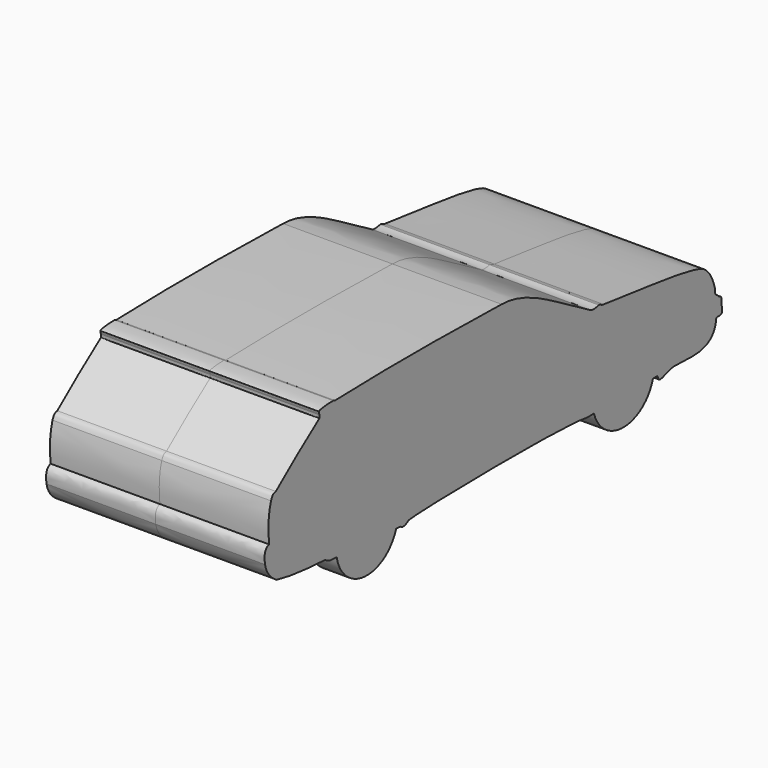
from build123d import *

# Parameters (mm, degrees)
F1_DEPTH = 902.5
F3_DEPTH = 225
F5_DEPTH = 225


with BuildPart() as f1:
    # F0 (on Right) → F1 (new body, symmetric)
    with BuildSketch(Plane.YZ):
        with BuildLine():
            add(Edge.make_bspline(
                [(1101.478338, 1014.964938), (1069.079041, 1005.923271), (1030.981779, 1002.969623), (1014.452219, 1014.588237)],
                knots=[0, 0, 0, 0, 87.026935, 87.026935, 87.026935, 87.026935], degree=3))
            add(Edge.make_bspline(
                [(1014.452219, 1014.588237), (611.487091, 1240.147233), (367.158981, 1423.733741), (98.51558, 1428.802401)],
                knots=[0, 0, 0, 0, 1005.242907, 1005.242907, 1005.242907, 1005.242907], degree=3))
            add(Edge.make_bspline(
                [(98.51558, 1428.802401), (-476.824492, 1442.931395), (-1046.424493, 1447.578598), (-1621.837849, 1428.802401)],
                knots=[0, 0, 0, 0, 1720.353428, 1720.353428, 1720.353428, 1720.353428], degree=3))
            add(Edge.make_bspline(
                [(-1621.837849, 1428.802401), (-1631.183743, 1428.406358), (-1628.966093, 1434.425473), (-1641.321182, 1434.742212)],
                knots=[0, 0, 0, 0, 20.368644, 20.368644, 20.368644, 20.368644], degree=3))
            add(Edge.make_bspline(
                [(-1641.321182, 1434.742212), (-1703.413248, 1437.276602), (-1787.681103, 1425.555229), (-1789.265156, 1416.051269)],
                knots=[0, 0, 0, 0, 149.119988, 149.119988, 149.119988, 149.119988], degree=3))
            add(Edge.make_bspline(
                [(-1789.265156, 1416.051269), (-1790.532351, 1402.428985), (-1785.408854, 1403.696299), (-1782.874465, 1389.440417)],
                knots=[0, 0, 0, 0, 27.367469, 27.367469, 27.367469, 27.367469], degree=3))
            add(Edge.make_bspline(
                [(-1782.874465, 1389.440417), (-1781.454563, 1381.36065), (-1779.255867, 1368.214488), (-1782.874465, 1364.135981)],
                knots=[0, 0, 0, 0, 25.304437, 25.304437, 25.304437, 25.304437], degree=3))
            add(Edge.make_bspline(
                [(-1782.874465, 1364.135981), (-1942.411184, 1251.474142), (-2090.845346, 1131.671906), (-2232.93972, 1015.63704)],
                knots=[0, 0, 0, 0, 569.218978, 569.218978, 569.218978, 569.218978], degree=3))
            add(Edge.make_bspline(
                [(-2232.93972, 1015.63704), (-2267.341375, 1009.202838), (-2269.133568, 997.554421), (-2282.573938, 967.537224)],
                knots=[0, 0, 0, 0, 69.116915, 69.116915, 69.116915, 69.116915], degree=3))
            add(Edge.make_bspline(
                [(-2282.573938, 967.537224), (-2315.279484, 864.045084), (-2311.695337, 756.520808), (-2301.838875, 658.404887)],
                knots=[0, 0, 0, 0, 309.732045, 309.732045, 309.732045, 309.732045], degree=3))
            add(Edge.make_bspline(
                [(-2301.838875, 658.404887), (-2356.497049, 643.620253), (-2352.016926, 578.657687), (-2344.400644, 529.375732)],
                knots=[0, 0, 0, 0, 135.867682, 135.867682, 135.867682, 135.867682], degree=3))
            add(Edge.make_bspline(
                [(-2344.400644, 529.375732), (-2327.823877, 446.940452), (-2275.405645, 400.346547), (-2222.539663, 368.985325)],
                knots=[0, 0, 0, 0, 201.432821, 201.432821, 201.432821, 201.432821], degree=3))
            add(Edge.make_bspline(
                [(-2222.539663, 368.985325), (-2068.421602, 331.799835), (-1892.350554, 320.151389), (-1722.999811, 310.743004)],
                knots=[0, 0, 0, 0, 502.923684, 502.923684, 502.923684, 502.923684], degree=3))
            add(Edge.make_bspline(
                [(-1722.999811, 310.743004), (-1708.100813, 298.669668), (-1682.744431, 286.449044), (-1663.56729, 285.481846)],
                knots=[0, 0, 0, 0, 48.861796, 48.861796, 48.861796, 48.861796], degree=3))
            add(Edge.make_bspline(
                [(-1663.56729, 285.481846), (-1649.298017, 284.762176), (-1638.449888, 290.272975), (-1637.876511, 306.710869)],
                knots=[48.861796, 48.861796, 48.861796, 48.861796, 85.218744, 85.218744, 85.218744, 85.218744], degree=3))
            add(Edge.make_bspline(
                [(-1637.876511, 306.710869), (-1649.076819, 526.687622), (-1542.44864, 647.204399), (-1412.971497, 702.75861)],
                knots=[0, 0, 0, 0, 455.451511, 455.451511, 455.451511, 455.451511], degree=3))
            add(Edge.make_bspline(
                [(-1412.971497, 702.75861), (-1258.853316, 737.704039), (-1082.334399, 719.783306), (-989.14665, 553.568661)],
                knots=[0, 0, 0, 0, 449.316305, 449.316305, 449.316305, 449.316305], degree=3))
            add(Edge.make_bspline(
                [(-989.14665, 553.568661), (-936.602473, 454.77581), (-941.532441, 342.288904), (-944.220491, 237.004705)],
                knots=[0, 0, 0, 0, 319.735982, 319.735982, 319.735982, 319.735982], degree=3))
            add(Edge.make_bspline(
                [(-944.220491, 237.004705), (-943.324455, 228.044353), (-909.721375, 212.398157), (-865.367591, 246.447518)],
                knots=[0, 0, 0, 0, 79.416286, 79.416286, 79.416286, 79.416286], degree=3))
            add(Edge.make_bspline(
                [(-865.367591, 246.447518), (-834.405482, 270.842612), (742.617369, 295.931607), (973.79452, 246.447518)],
                knots=[0, 0, 0, 0, 1839.162111, 1839.162111, 1839.162111, 1839.162111], degree=3))
            add(Edge.make_bspline(
                [(973.79452, 246.447518), (982.639194, 467.240185), (1032.368422, 711.365521), (1331.497312, 736.230135)],
                knots=[0, 0, 0, 0, 606.496742, 606.496742, 606.496742, 606.496742], degree=3))
            add(Edge.make_bspline(
                [(1331.497312, 736.230135), (1562.060118, 742.257893), (1739.879847, 544.094384), (1709.740877, 254.00722)],
                knots=[0, 0, 0, 0, 612.867958, 612.867958, 612.867958, 612.867958], degree=3))
            add(Edge.make_bspline(
                [(1709.740877, 254.00722), (1715.015173, 173.385605), (1793.376446, 249.486387), (1880.025864, 254.00722)],
                knots=[0, 0, 0, 0, 170.284986, 170.284986, 170.284986, 170.284986], degree=3))
            add(Edge.make_bspline(
                [(1880.025864, 254.00722), (2073.66848, 248.73291), (2294.435978, 211.059242), (2315.5334, 431.073427)],
                knots=[0, 0, 0, 0, 470.12685, 470.12685, 470.12685, 470.12685], degree=3))
            add(Edge.make_bspline(
                [(2315.5334, 431.073427), (2375.8111, 431.073457), (2375.8111, 431.073457), (2372.043848, 482.30961)],
                knots=[0, 0, 0, 0, 76.279599, 76.279599, 76.279599, 76.279599], degree=3))
            add(Edge.make_bspline(
                [(2372.043848, 482.30961), (2367.522955, 556.903422), (2376.564741, 562.93124), (2338.137627, 574.986815)],
                knots=[0, 0, 0, 0, 98.684833, 98.684833, 98.684833, 98.684833], degree=3))
            add(Edge.make_bspline(
                [(2338.137627, 574.986815), (2325.328588, 598.344445), (2314.779997, 587.042391), (2301.217318, 614.920855)],
                knots=[0, 0, 0, 0, 54.385997, 54.385997, 54.385997, 54.385997], degree=3))
            add(Edge.make_bspline(
                [(2301.217318, 614.920855), (2301.217318, 626.474122), (2301.217318, 638.02739), (2301.217318, 649.580657)],
                knots=[0, 0, 0, 0, 34.659803, 34.659803, 34.659803, 34.659803], degree=3))
            add(Edge.make_bspline(
                [(2301.217318, 649.580657), (2277.106285, 733.216166), (2254.502296, 779.178023), (2197.99161, 827.400327)],
                knots=[0, 0, 0, 0, 205.60978, 205.60978, 205.60978, 205.60978], degree=3))
            add(Edge.make_bspline(
                [(2197.99161, 827.400327), (2100.7936, 905.76154), (1512.33089, 948.709548), (1151.417255, 999.9457)],
                knots=[0, 0, 0, 0, 1060.702496, 1060.702496, 1060.702496, 1060.702496], degree=3))
            add(Edge.make_bspline(
                [(1151.417255, 999.9457), (1127.096415, 1001.779199), (1123.329043, 1014.964938), (1101.478338, 1014.964938)],
                knots=[0, 0, 0, 0, 52.148566, 52.148566, 52.148566, 52.148566], degree=3))
        make_face()
        with BuildLine():
            Line((973.79452, 246.447518), (1709.740877, 254.00722))
            add(Edge.make_bspline(
                [(1331.497312, 736.230135), (1562.060118, 742.257893), (1739.879847, 544.094384), (1709.740877, 254.00722)],
                knots=[0, 0, 0, 0, 612.867958, 612.867958, 612.867958, 612.867958], degree=3))
            add(Edge.make_bspline(
                [(973.79452, 246.447518), (982.639194, 467.240185), (1032.368422, 711.365521), (1331.497312, 736.230135)],
                knots=[0, 0, 0, 0, 606.496742, 606.496742, 606.496742, 606.496742], degree=3))
        make_face()
        with BuildLine():
            add(Edge.make_bspline(
                [(-1663.56729, 285.481846), (-1649.298017, 284.762176), (-1638.449888, 290.272975), (-1637.876511, 306.710869)],
                knots=[48.861796, 48.861796, 48.861796, 48.861796, 85.218744, 85.218744, 85.218744, 85.218744], degree=3))
            Line((-1663.56729, 285.481846), (-944.220491, 237.004705))
            add(Edge.make_bspline(
                [(-989.14665, 553.568661), (-936.602473, 454.77581), (-941.532441, 342.288904), (-944.220491, 237.004705)],
                knots=[0, 0, 0, 0, 319.735982, 319.735982, 319.735982, 319.735982], degree=3))
            add(Edge.make_bspline(
                [(-1412.971497, 702.75861), (-1258.853316, 737.704039), (-1082.334399, 719.783306), (-989.14665, 553.568661)],
                knots=[0, 0, 0, 0, 449.316305, 449.316305, 449.316305, 449.316305], degree=3))
            add(Edge.make_bspline(
                [(-1637.876511, 306.710869), (-1649.076819, 526.687622), (-1542.44864, 647.204399), (-1412.971497, 702.75861)],
                knots=[0, 0, 0, 0, 455.451511, 455.451511, 455.451511, 455.451511], degree=3))
        make_face()
    extrude(amount=F1_DEPTH, both=True)

    # F2 (on face) → F3 (join)
    with BuildSketch(Plane(origin=(-902.5, 0, 0), x_dir=(0, -1, 0), z_dir=(-1, 0, 0))):
        with BuildLine():
            ThreePointArc((-1051.570597, 247.246441), (-1041.052542, 293.461517), (-1037.520368, 340.726584))
            ThreePointArc((-1037.520368, 340.726584), (-1399.552872, 655.663306), (-1661.326271, 253.509901))
            Line((-1661.326271, 253.509901), (-1051.570597, 247.246441))
        make_face()
        with BuildLine():
            Line((-1051.570597, 247.246441), (-1661.326271, 253.509901))
            ThreePointArc((-1661.326271, 253.509901), (-1358.786718, 22.74336), (-1051.570597, 247.246441))
        make_face()
        with BuildLine():
            ThreePointArc((1610.566419, 340.726584), (1241.61997, 654.619017), (990.890574, 240.149825))
            Line((990.890574, 240.149825), (1605.009093, 281.53558))
            ThreePointArc((1605.009093, 281.53558), (1609.174039, 311.000927), (1610.566419, 340.726584))
        make_face()
        with BuildLine():
            Line((1605.009093, 281.53558), (990.890574, 240.149825))
            ThreePointArc((990.890574, 240.149825), (1313.948101, 23.446229), (1605.009093, 281.53558))
        make_face()
    extrude(amount=-F3_DEPTH)

    # F4 (on face) → F5 (join)
    with BuildSketch(Plane.YZ.offset(902.5)):
        with BuildLine():
            ThreePointArc((-990.221178, 240.104714), (-978.09951, 289.551691), (-974.024136, 340.299398))
            ThreePointArc((-974.024136, 340.299398), (-1321.549336, 656.925775), (-1604.54151, 281.504069))
            Line((-1604.54151, 281.504069), (-990.221178, 240.104714))
        make_face()
        with BuildLine():
            Line((-990.221178, 240.104714), (-1604.54151, 281.504069))
            ThreePointArc((-1604.54151, 281.504069), (-1313.405818, 23.019043), (-990.221178, 240.104714))
        make_face()
        with BuildLine():
            ThreePointArc((1673.589986, 340.299398), (1308.545542, 654.800304), (1051.509355, 247.245812))
            Line((1051.509355, 247.245812), (1661.51796, 253.51187))
            ThreePointArc((1661.51796, 253.51187), (1670.55752, 296.487845), (1673.589986, 340.299398))
        make_face()
        with BuildLine():
            Line((1661.51796, 253.51187), (1051.509355, 247.245812))
            ThreePointArc((1051.509355, 247.245812), (1358.856336, 22.316173), (1661.51796, 253.51187))
        make_face()
    extrude(amount=-F5_DEPTH)


solid = f1.part
